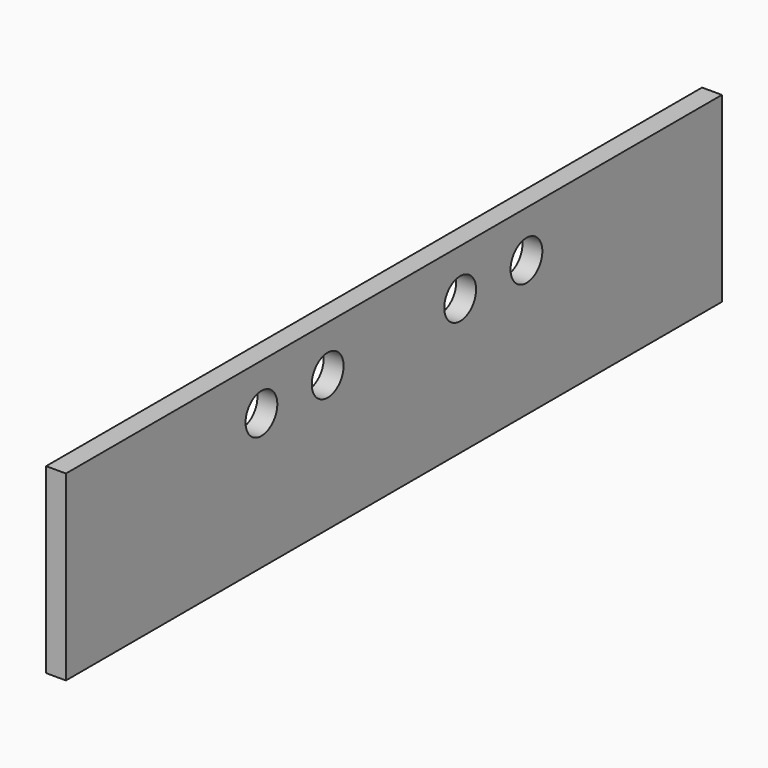
from build123d import *

# Parameters (mm, degrees)
PAD_DEPTH    = 12
SKETCH001_R  = 12
POCKET_DEPTH = 20


with BuildPart() as part:
    # Sketch → Pad (new body)
    with BuildSketch(Plane.YZ):
        Polygon((0, 0), (0, 110), (495, 110), (495, 0), (247.5, 0), align=None)
    extrude(amount=-PAD_DEPTH)

    # Sketch001 (on Face7 of Pad) → Pocket (cut)
    with BuildSketch(Plane(origin=(-12, 0, 0), x_dir=(0, -1, 0), z_dir=(-1, 0, 0))):
        with Locations((-197.5, 82)):
            Circle(SKETCH001_R)
        with Locations((-297.5, 82)):
            Circle(SKETCH001_R)
        with Locations((-347.5, 82)):
            Circle(SKETCH001_R)
        with Locations((-147.5, 82)):
            Circle(SKETCH001_R)
    extrude(amount=-POCKET_DEPTH, mode=Mode.SUBTRACT)


solid = part.part
